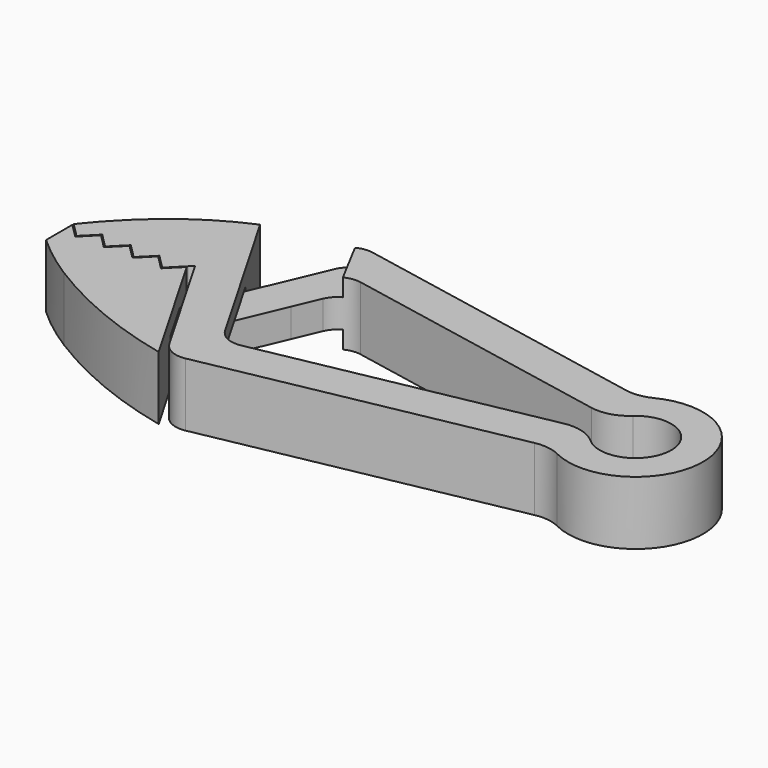
from build123d import *

# Parameters (mm, degrees)
F1_DEPTH = 4
F2_W     = 15.7914069632
F2_H     = 4
F3_DEPTH = 7
F6_W     = 13.4452040827
F6_H     = 2.2
F7_DEPTH = 8
F8_DEPTH = 14.5045625426


with BuildPart() as f1:
    # F0 (on Top) → F1 (new body, symmetric)
    with BuildSketch(Plane.XY):
        with BuildLine():
            ThreePointArc((40.1879624894, -7.1882514277), (41.8101711711, -7.1412327294), (43.3619882248, -7.6162438838))
            ThreePointArc((43.3619882248, -7.6162438838), (55.6359555142, 0), (43.3619882248, 7.6162438838))
            ThreePointArc((43.3619882248, 7.6162438838), (41.8101711711, 7.1412327294), (40.1879624894, 7.1882514277))
            Line((40.1879624894, 7.1882514277), (2.3847180591, 14.5364577665))
            ThreePointArc((2.3847180591, 14.5364577665), (0.4038763846, 14.2404189947), (-0.9492234874, 12.7637696016))
            Line((-0.9492234874, 12.7637696016), (-3.9139870299, 5.7792243959))
            Line((-3.9139870299, 5.7792243959), (0.6885372374, 3.8255687534))
            Line((0.6885372374, 3.8255687534), (2.0712616343, 7.0830632951))
            ThreePointArc((2.0712616343, 7.0830632951), (3.4243615063, 8.5597126882), (5.4052031808, 8.85575146))
            Line((5.4052031808, 8.85575146), (39.8374709782, 2.1627966012))
            ThreePointArc((39.8374709782, 2.1627966012), (42.1235130158, 2.251618892), (44.1306946704, 3.3493890877))
            ThreePointArc((44.1306946704, 3.3493890877), (51.6359555142, 0), (44.1306946704, -3.3493890877))
            ThreePointArc((44.1306946704, -3.3493890877), (42.1235130158, -2.251618892), (39.8374709782, -2.1627966012))
            Line((39.8374709782, -2.1627966012), (4.6474579448, -9.0030422132))
            ThreePointArc((4.6474579448, -9.0030422132), (2.8309512307, -8.7880444755), (1.4769547473, -7.5581606629))
            Line((1.4769547473, -7.5581606629), (-9.963304434, 12.256949491))
            ThreePointArc((-9.963304434, 12.256949491), (-14.5143086091, 9.879543395), (-18.655423863, 6.8439440802))
            ThreePointArc((-18.655423863, 6.8439440802), (-21.653397971, 4.0115098086), (-24.3606178303, 0.9))
            Line((-24.3606178303, 0.9), (-22.5606178303, -0.9))
            Line((-22.5606178303, -0.9), (-20.7606178303, 0.9))
            Line((-20.7606178303, 0.9), (-18.9606178303, -0.9))
            Line((-18.9606178303, -0.9), (-17.1606178303, 0.9))
            Line((-17.1606178303, 0.9), (-15.3606178303, -0.9))
            Line((-15.3606178303, -0.9), (-13.5606178303, 0.9))
            Line((-13.5606178303, 0.9), (-11.7606178303, -0.9))
            Line((-11.7606178303, -0.9), (-9.9606178303, 0.9))
            Line((-9.9606178303, 0.9), (-9.4656430834, 1.3949747468))
            Line((-9.4656430834, 1.3949747468), (-1.0699396018, -13.1468102486))
            ThreePointArc((-1.0699396018, -13.1468102486), (0.2840568815, -14.3766940612), (2.1005635956, -14.5916917989))
            Line((2.1005635956, -14.5916917989), (40.1879624894, -7.1882514277))
        make_face()
    extrude(amount=F1_DEPTH, both=True)

    # F2 (on face) → F3 (cut)
    with BuildSketch(Plane(origin=(-6.4951905284, -3.75, 0), x_dir=(0.5, -0.8660254038, 0), z_dir=(-0.8660254038, -0.5, 0))):
        with Locations((1.9547983715, 0)):
            Rectangle(F2_W, F2_H)
    extrude(amount=-F3_DEPTH, mode=Mode.SUBTRACT)

    # F6 (on face) → F7 (cut)
    with BuildSketch(Plane(origin=(6.2177817942, 3.306053224, 0), x_dir=(0.4694715628, -0.8829475929, 0), z_dir=(-0.8829475929, -0.4694715628, 0))):
        with Locations((-9.7771301106, -2.9)):
            Rectangle(F6_W, F6_H)
        with Locations((-9.7771301106, 2.9)):
            Rectangle(F6_W, F6_H)
    extrude(amount=F7_DEPTH, mode=Mode.SUBTRACT)

    # F8 (add, up to face): a face of the model
    f8_faces = [f1.faces().sort_by_distance(p)[0] for p in [
        (-1.6127248962, 4.8023965747, 0),
    ]]


with BuildPart() as f1b:
    # F0 (on Top) → F1, piece 2 (new body, symmetric)
    with BuildSketch(Plane.XY):
        with BuildLine():
            ThreePointArc((-18.655423863, -7.7815652767), (-10.0426174907, -12.2242484166), (-0.8057885607, -15.1566294295))
            Line((-0.8057885607, -15.1566294295), (-9.9606178303, 0.7))
            Line((-9.9606178303, 0.7), (-11.7606178303, -1.1))
            Line((-11.7606178303, -1.1), (-13.5606178303, 0.7))
            Line((-13.5606178303, 0.7), (-15.3606178303, -1.1))
            Line((-15.3606178303, -1.1), (-17.1606178303, 0.7))
            Line((-17.1606178303, 0.7), (-18.9606178303, -1.1))
            Line((-18.9606178303, -1.1), (-20.7606178303, 0.7))
            Line((-20.7606178303, 0.7), (-22.5606178303, -1.1))
            Line((-22.5606178303, -1.1), (-24.3606178303, 0.7))
            Line((-24.3606178303, 0.7), (-24.3606178303, -3.443194404))
            ThreePointArc((-24.3606178303, -3.443194404), (-21.6051594937, -5.7401224515), (-18.655423863, -7.7815652767))
        make_face()
    extrude(amount=F1_DEPTH, both=True)


with BuildPart() as f1_1:
    add(f1.part)

    add(f1b.part)  # F8 merges F1b
    extrude(f8_faces, amount=F8_DEPTH)


solid = f1_1.part
